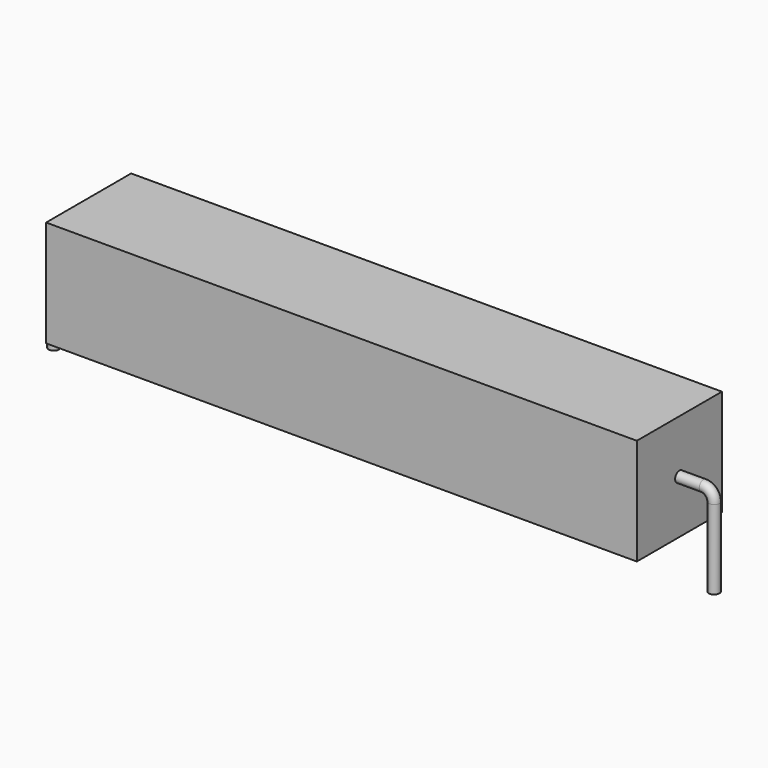
from build123d import *

# Parameters (mm, degrees)
SKETCH_R    = 0.45
SKETCH002_W = 50
SKETCH002_H = 9
PAD_DEPTH   = 4.5


with BuildPart() as sweep_body:
    # Sweep: sweep along a path in Sketch001
    with BuildLine(Plane.XZ) as sweep_path:
        Line((0, -3), (0, 3.7))
        ThreePointArc((0, 3.7), (0.263607, 4.336399), (0.900008, 4.6))
        Line((0.900008, 4.6), (54.98, 4.6))
        ThreePointArc((54.98, 4.6), (55.616396, 4.336396), (55.88, 3.7))
        Line((55.88, 3.7), (55.88, -3))
    # Sketch → Sweep (sweep)
    with BuildSketch(Plane.XY.offset(-2)):
        Circle(SKETCH_R)
    sweep(path=sweep_path.line)


with BuildPart() as pad:
    # Sketch002 → Pad (new body, symmetric)
    with BuildSketch(Plane.XZ):
        with Locations((27.94, 4.6)):
            Rectangle(SKETCH002_W, SKETCH002_H)
    extrude(amount=PAD_DEPTH, both=True)


solid = Compound([sweep_body.part, pad.part])
